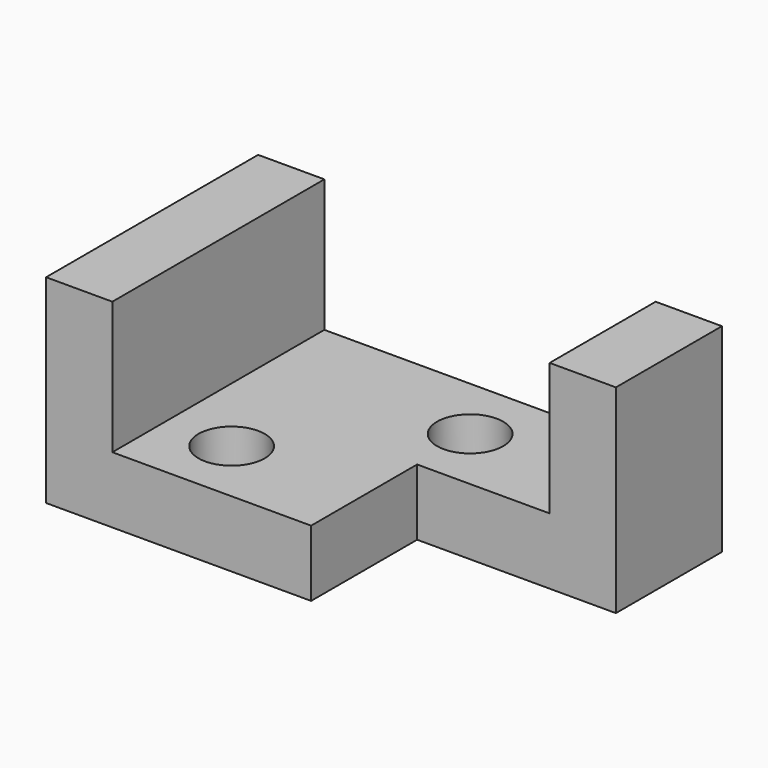
from build123d import *

# Parameters (mm, degrees)
F0_W     = 12.7
F0_H     = 50.8
F0_H_2   = 25.4
F1_DEPTH = 12.7
F2_DEPTH = 25.4
F4_D     = 12.7


with BuildPart() as f1:
    # F0 (on Top) → F1 (new body)
    with BuildSketch(Plane.XY):
        with Locations((-56.507676, 50.058354)):
            Rectangle(F0_W, F0_H)
        Polygon((-50.157676, 75.458354), (-50.157676, 24.658354), (-12.057676, 24.658354), (-12.057676, 50.058354), (13.342324, 50.058354), (13.342324, 75.458354), align=None)
        with Locations((19.692324, 62.758354)):
            Rectangle(F0_W, F0_H_2)
    extrude(amount=-F1_DEPTH)

    # F0 (on Top) → F2 (join)
    with BuildSketch(Plane.XY):
        with Locations((-56.507676, 50.058354)):
            Rectangle(F0_W, F0_H)
        with Locations((19.692324, 62.758354)):
            Rectangle(F0_W, F0_H_2)
    extrude(amount=F2_DEPTH)

    # F4 (through all)
    with Locations(Plane.XY):
        with Locations((-37.457676, 37.358354), (-12.057676, 62.758354)):
            Hole(F4_D / 2)


solid = f1.part
